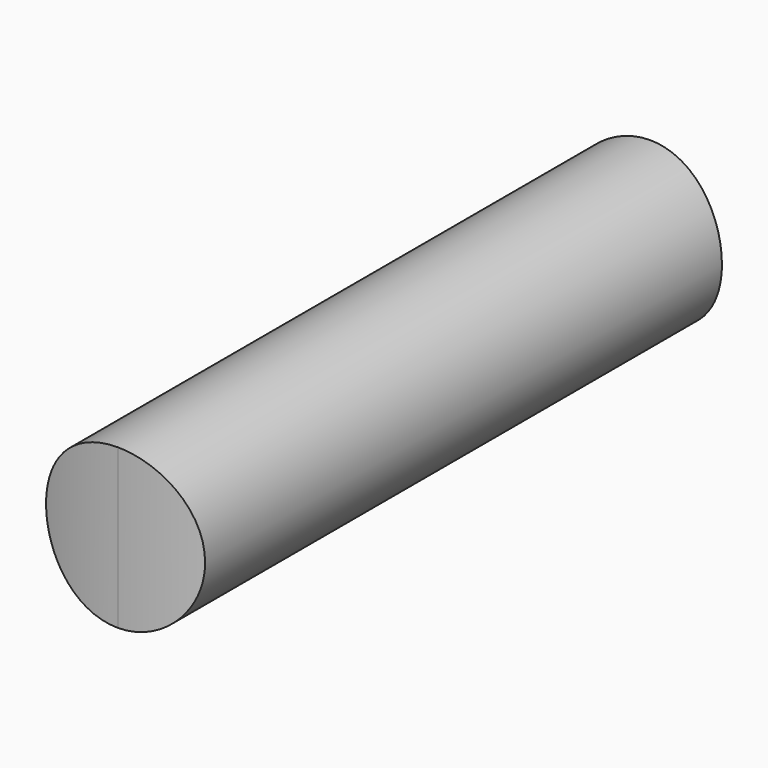
from build123d import *

# Parameters (mm, degrees)
F0_R          = 4.9
F1_DEPTH      = 20.5
F1_DEPTH_BACK = 20.5
F3_START      = 25
F3_DEPTH      = 50


with BuildPart() as f1:
    # F0 (on Front) → F1 (new body, two sides)
    with BuildSketch(Plane.XZ) as f1_sk:
        Circle(F0_R)
    extrude(amount=F1_DEPTH)
    extrude(f1_sk.sketch, amount=-F1_DEPTH_BACK)

    # F2 (on Top) → F3 (intersect)
    with BuildSketch(Plane.XY.offset(F3_START)):
        with BuildLine():
            ThreePointArc((0, -20.5), (14.4956890143, -14.4956890143), (20.5, 0))
            ThreePointArc((20.5, 0), (14.4956890143, 14.4956890143), (0, 20.5))
            ThreePointArc((0, 20.5), (-20.5, 0), (0, -20.5))
        make_face()
    extrude(amount=-F3_DEPTH, mode=Mode.INTERSECT)


solid = f1.part
